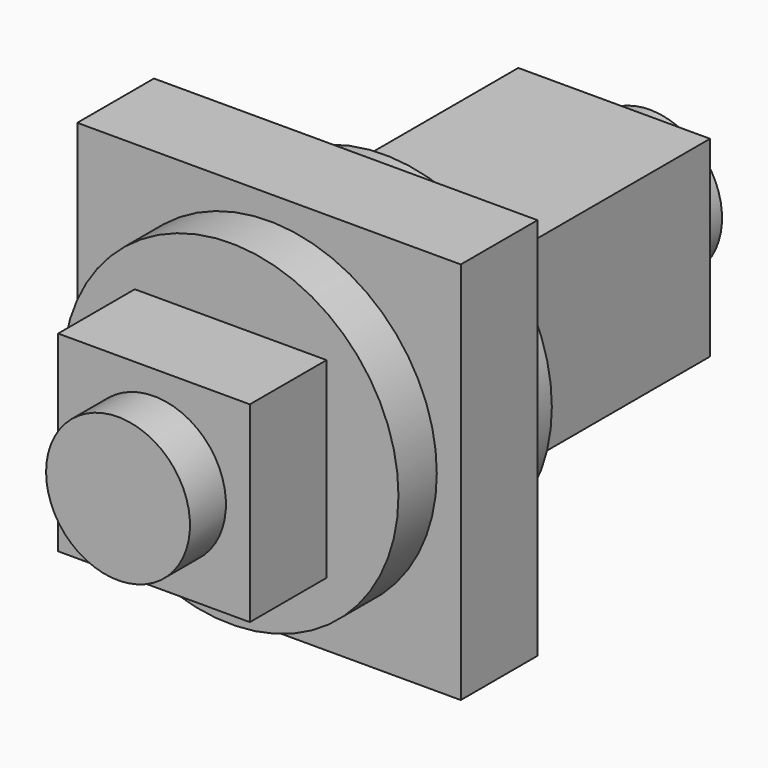
from build123d import *

# Parameters (mm, degrees)
F0_W     = 205.25232
F0_H     = 205.25232
F0_R     = 89.79789
F1_DEPTH = 25.65654
F2_DEPTH = 51.308
F3_W     = 102.616
F3_H     = 102.616
F3_R     = 38.5064
F4_DEPTH = 153.924
F5_DEPTH = 177.9778


with BuildPart() as f1:
    # F0 (on Front) → F1 (new body, symmetric)
    with BuildSketch(Plane.XZ):
        Rectangle(F0_W, F0_H)
        Circle(F0_R, mode=Mode.SUBTRACT)
    extrude(amount=F1_DEPTH, both=True)


with BuildPart() as f2:
    # F0 (on Front) → F2 (new body, symmetric)
    with BuildSketch(Plane.XZ):
        Circle(F0_R)
    extrude(amount=F2_DEPTH, both=True)

    # F3 (on face) → F4 (join, symmetric)
    with BuildSketch(Plane(origin=(0, 51.308, 0), x_dir=(-1, 0, 0), z_dir=(0, 1, 0))):
        Rectangle(F3_W, F3_H)
        Circle(F3_R, mode=Mode.SUBTRACT)
    extrude(amount=F4_DEPTH, both=True)

    # F5 (add, symmetric): a face of the model
    f5_faces = [f2.faces().sort_by_distance(p)[0] for p in [
        (0, 51.308, 0),
    ]]
    extrude(f5_faces, amount=F5_DEPTH, both=True)


solid = Compound([f1.part, f2.part])
